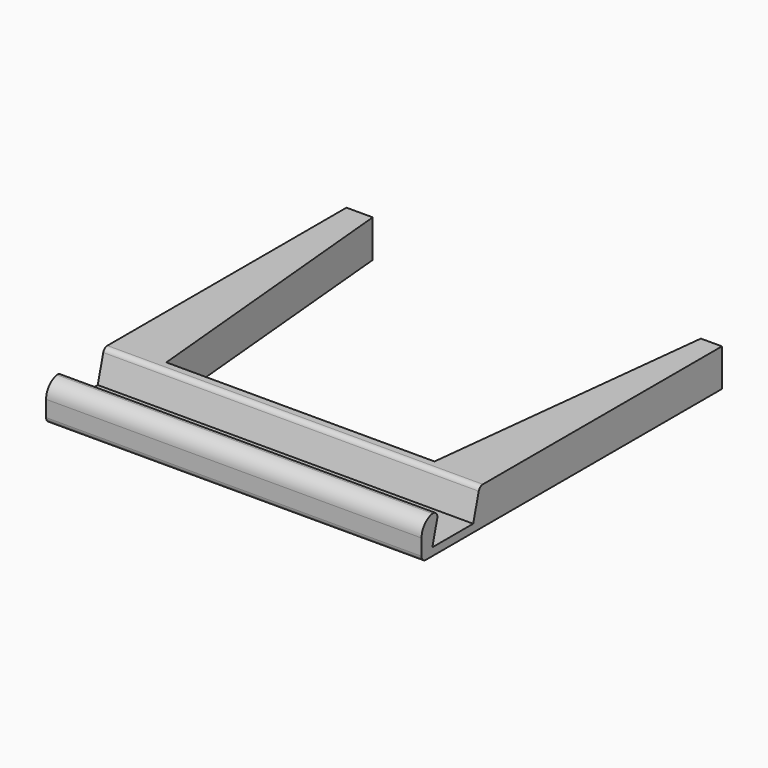
from build123d import *

# Parameters (mm, degrees)
F0_W     = 70
F0_H     = 70
F1_DEPTH = 7
F3_DEPTH = 70
F4_R     = 3
F5_R     = 1
F6_R     = 1
F8_DEPTH = 7


with BuildPart() as f1:
    # F0 (on Top) → F1 (new body)
    with BuildSketch(Plane.XY):
        Rectangle(F0_W, F0_H)
    extrude(amount=F1_DEPTH)

    # F2 (on face) → F3 (cut, through all)
    with BuildSketch(Plane(origin=(-35, 0, 0), x_dir=(0, -1, 0), z_dir=(-1, 0, 0))):
        Polygon((31, 7), (21.4754591402, 7), (22.9629022167, 1.4487868654), (32.4874430764, 1.4487868654), align=None)
    extrude(amount=-F3_DEPTH, mode=Mode.SUBTRACT)

    # F4
    f4_edges = [f1.edges().sort_by_distance(p)[0] for p in [
        (0, -35, 7),
    ]]
    fillet(f4_edges, radius=F4_R)

    # F5
    f5_edges = [f1.edges().sort_by_distance(p)[0] for p in [
        (0, -35, 0),
    ]]
    fillet(f5_edges, radius=F5_R)

    # F6
    f6_edges = [f1.edges().sort_by_distance(p)[0] for p in [
        (0, -21.475459, 7),
        (0, -31, 7),
    ]]
    fillet(f6_edges, radius=F6_R)

    # F7 (on face) → F8 (cut, through all)
    with BuildSketch(Plane.XY.offset(7)):
        Polygon((-25, -19.4765049964), (25, -19.4765049964), (31.0781002045, 35), (26.0781002045, 35), (-25.1070436835, 35), (-30.1070436835, 35), align=None)
    extrude(amount=-F8_DEPTH, mode=Mode.SUBTRACT)


solid = f1.part
